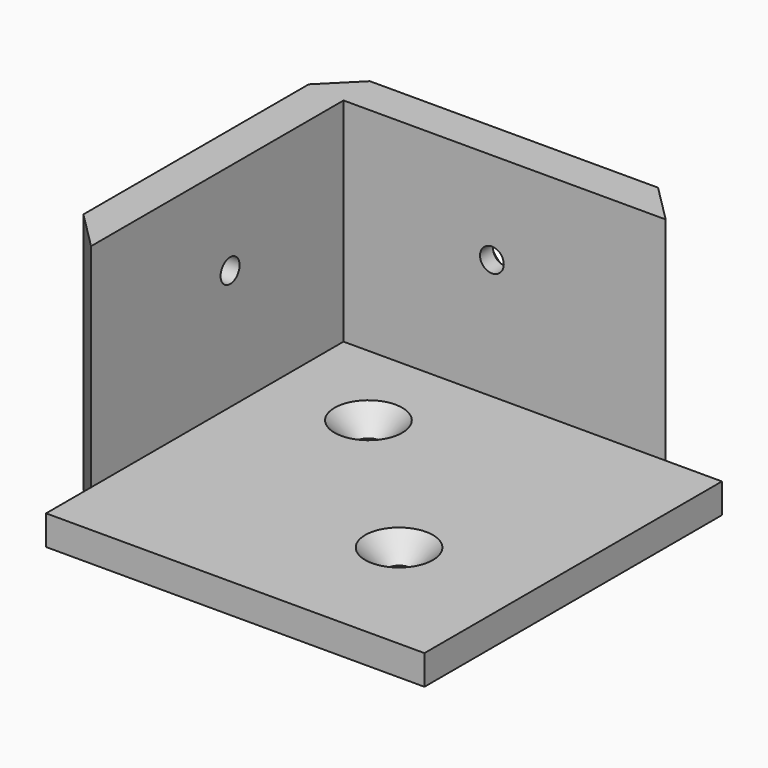
from build123d import *

# Parameters (mm, degrees)
F0_W            = 61.5
F0_H            = 60.53
F1_DEPTH        = 4.38
F3_DEPTH        = 31.34
F4_W            = 5.65
F4_H            = 8.3
F4_W_2          = 8.3
F4_H_2          = 5.65
F5_DEPTH        = 35.72
F7_DEPTH        = 35.72
F9_DEPTH        = 35.72
F11_D           = 3.5
F11_CSINK_D     = 10
F11_CSINK_ANGLE = 90
F13_D           = 3.5
F13_CSINK_D     = 10
F13_CSINK_ANGLE = 90
F15_D           = 3.5
F15_CSINK_D     = 10
F15_CSINK_ANGLE = 90
F17_D           = 3.5
F17_CSINK_D     = 10
F17_CSINK_ANGLE = 90


with BuildPart() as f1:
    # F0 (on Top) → F1 (new body)
    with BuildSketch(Plane.XY):
        with Locations((-10.297848, 8.882269)):
            Rectangle(F0_W, F0_H)
    extrude(amount=F1_DEPTH)

    # F2 (on face) → F3 (join)
    with BuildSketch(Plane.XY.offset(4.38)):
        Polygon((-41.047848, 39.147269), (-41.047848, -21.382731), (-35.397848, -21.382731), (-35.397848, 33.497269), (20.452152, 33.497269), (20.452152, 39.147269), (-35.397848, 39.147269), align=None)
    extrude(amount=F3_DEPTH)

    # F4 (on face) → F5 (cut, through all)
    with BuildSketch(Plane.XY.offset(35.72)):
        with Locations((-38.222848, -17.232731)):
            Rectangle(F4_W, F4_H)
        with Locations((16.302152, 36.322269)):
            Rectangle(F4_W_2, F4_H_2)
    extrude(amount=-F5_DEPTH, mode=Mode.SUBTRACT)

    # F6 (on face) → F7 (cut, through all)
    with BuildSketch(Plane.XY.offset(35.72)):
        Polygon((-41.047848, -13.082731), (-35.397848, -13.082731), (-41.047848, -7.432731), align=None)
        Polygon((6.502152, 39.147269), (12.152152, 33.497269), (12.152152, 39.147269), align=None)
    extrude(amount=-F7_DEPTH, mode=Mode.SUBTRACT)

    # F8 (on face) → F9 (cut, through all)
    with BuildSketch(Plane.XY.offset(35.72)):
        Polygon((-41.047848, 34.130973), (-36.031552, 39.147269), (-41.047848, 39.147269), align=None)
    extrude(amount=-F9_DEPTH, mode=Mode.SUBTRACT)

    # F11 (through all)
    with Locations(Plane.XY.offset(4.38)):
        with Locations((1.702152, -2.632731)):
            CounterSinkHole(F11_D / 2, F11_CSINK_D / 2, counter_sink_angle=F11_CSINK_ANGLE)

    # F13 (through all)
    with Locations(Plane.XY.offset(4.38)):
        with Locations((-20.897848, 19.967269)):
            CounterSinkHole(F13_D / 2, F13_CSINK_D / 2, counter_sink_angle=F13_CSINK_ANGLE)

    # F15 (through all)
    with Locations(Plane(origin=(0, 39.147269, 0), x_dir=(-1, 0, 0), z_dir=(0, 1, 0))):
        with Locations((13.497848, 22.12)):
            CounterSinkHole(F15_D / 2, F15_CSINK_D / 2, counter_sink_angle=F15_CSINK_ANGLE)

    # F17 (through all)
    with Locations(Plane(origin=(-41.047848, 0, 0), x_dir=(0, -1, 0), z_dir=(-1, 0, 0))):
        with Locations((-12.567269, 22.12)):
            CounterSinkHole(F17_D / 2, F17_CSINK_D / 2, counter_sink_angle=F17_CSINK_ANGLE)


solid = f1.part
